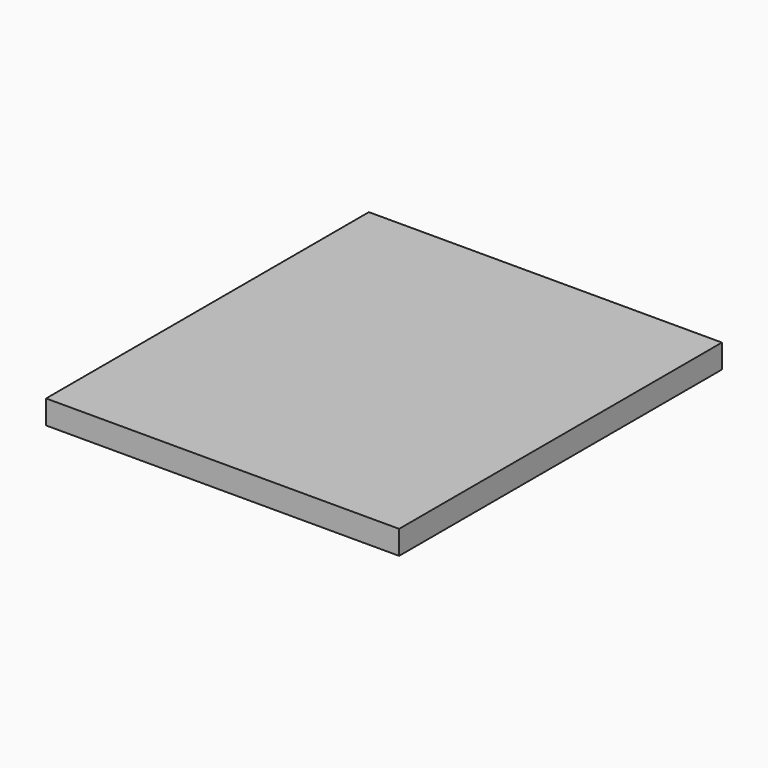
from build123d import *

# Parameters (mm, degrees)
SKETCH_W      = 88.9
SKETCH_H      = 101.6
EXTRUDE_DEPTH = 5.9944


with BuildPart() as part:
    # Sketch → Extrude (new body)
    with BuildSketch(Plane.XY):
        with Locations((-4.671843, -17.384378)):
            Rectangle(SKETCH_W, SKETCH_H)
    extrude(amount=EXTRUDE_DEPTH)


solid = part.part
